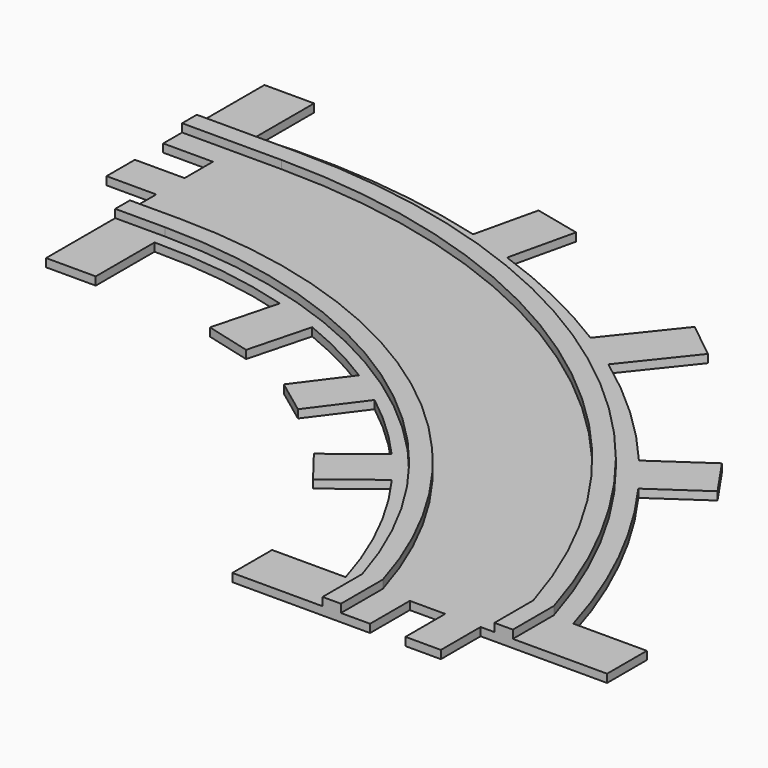
from build123d import *

# Parameters (mm, degrees)
F1_DEPTH = 25.4
F3_DEPTH = 25.4


with BuildPart() as f1:
    # F0 (on Top) → F1 (new body)
    with BuildSketch(Plane.XY):
        with BuildLine():
            Line((31.189967, 340.204117), (-123.115033, 340.204117))
            Line((-123.115033, 340.204117), (-123.115033, -52.810083))
            Line((-123.115033, -52.810083), (31.189967, -52.810083))
            Line((31.189967, -52.810083), (31.189967, -162.817483))
            Line((31.189967, -162.817483), (-123.115033, -162.817483))
            Line((-123.115033, -162.817483), (-123.115033, -272.824883))
            Line((-123.115033, -272.824883), (31.189967, -272.824883))
            Line((31.189967, -272.824883), (31.189967, -700.687883))
            Line((31.189967, -700.687883), (185.494967, -700.687883))
            Line((185.494967, -700.687883), (185.494967, -472.189483))
            ThreePointArc((185.494967, -472.189483), (406.425601, -486.299438), (622.902739, -532.636077))
            ThreePointArc((622.902739, -532.636077), (693.184114, -555.0638), (762.283228, -580.90537))
            ThreePointArc((762.283228, -580.90537), (888.467852, -638.535397), (1008.816242, -707.528472))
            ThreePointArc((1008.816242, -707.528472), (1065.008132, -745.073189), (1119.459623, -785.100298))
            ThreePointArc((1119.459623, -785.100298), (1229.380136, -878.480043), (1329.866812, -981.94368))
            ThreePointArc((1329.866812, -981.94368), (1373.307096, -1033.460725), (1414.400011, -1086.86893))
            ThreePointArc((1414.400011, -1086.86893), (1550.799617, -1311.26525), (1646.159828, -1555.938482))
            Line((1646.159828, -1555.938482), (1417.661428, -1555.938482))
            Line((1417.661428, -1555.938482), (1417.661428, -1710.243482))
            Line((1417.661428, -1710.243482), (1845.524428, -1710.243482))
            Line((1845.524428, -1710.243482), (1845.524428, -1555.938482))
            Line((1845.524428, -1555.938482), (1955.531828, -1555.938482))
            Line((1955.531828, -1555.938482), (1955.531828, -1710.243482))
            Line((1955.531828, -1710.243482), (2065.539228, -1710.243482))
            Line((2065.539228, -1710.243482), (2065.539228, -1555.938482))
            Line((2065.539228, -1555.938482), (2458.553428, -1555.938482))
            Line((2458.553428, -1555.938482), (2458.553428, -1401.633482))
            Line((2458.553428, -1401.633482), (2230.055028, -1401.633482))
            ThreePointArc((2230.055028, -1401.633482), (2098.411782, -1061.503235), (1910.130691, -749.14325))
            ThreePointArc((1910.130691, -749.14325), (1865.655335, -690.217277), (1819.144574, -632.884244))
            ThreePointArc((1819.144574, -632.884244), (1642.865002, -447.334595), (1445.405297, -284.507002))
            ThreePointArc((1445.405297, -284.507002), (1385.55525, -242.541612), (1324.286706, -202.675744))
            ThreePointArc((1324.286706, -202.675744), (1119.301825, -89.629511), (903.050114, 0))
            ThreePointArc((903.050114, 0), (833.05066, 23.189152), (762.283228, 43.916693))
            ThreePointArc((762.283228, 43.916693), (399.709676, 109.875363), (31.189967, 111.705717))
            Line((31.189967, 111.705717), (31.189967, 340.204117))
        make_face()
        with BuildLine():
            Line((807.937359, 241.05063), (762.283228, 43.916693))
            ThreePointArc((762.283228, 43.916693), (833.05066, 23.189152), (903.050114, 0))
            Line((903.050114, 0), (951.129198, 207.942814))
            Line((951.129198, 207.942814), (807.937359, 241.05063))
        make_face()
        with BuildLine():
            Line((1485.874518, 0), (1324.286706, -202.675744))
            ThreePointArc((1324.286706, -202.675744), (1385.55525, -242.541612), (1445.405297, -284.507002))
            Line((1445.405297, -284.507002), (1599.811573, -90.838889))
            Line((1599.811573, -90.838889), (1485.874518, 0))
        make_face()
        with BuildLine():
            Line((1985.43191, -518.501341), (1819.144574, -632.884244))
            ThreePointArc((1819.144574, -632.884244), (1865.655335, -690.217277), (1910.130691, -749.14325))
            Line((1910.130691, -749.14325), (2068.940302, -639.903997))
            Line((2068.940302, -639.903997), (1985.43191, -518.501341))
        make_face()
        with BuildLine():
            ThreePointArc((762.283228, -580.90537), (693.184114, -555.0638), (622.902739, -532.636077))
            Line((622.902739, -532.636077), (569.247404, -736.823327))
            Line((569.247404, -736.823327), (711.489907, -774.201122))
            Line((711.489907, -774.201122), (762.283228, -580.90537))
        make_face()
        with BuildLine():
            ThreePointArc((1119.459623, -785.100298), (1065.008132, -745.073189), (1008.816242, -707.528472))
            Line((1008.816242, -707.528472), (896.301459, -858.639513))
            Line((896.301459, -858.639513), (1004.640102, -939.306676))
            Line((1004.640102, -939.306676), (1119.459623, -785.100298))
        make_face()
        with BuildLine():
            ThreePointArc((1414.400011, -1086.86893), (1373.307096, -1033.460725), (1329.866812, -981.94368))
            Line((1329.866812, -981.94368), (1180.761456, -1097.536802))
            Line((1180.761456, -1097.536802), (1263.301866, -1204.006952))
            Line((1263.301866, -1204.006952), (1414.400011, -1086.86893))
        make_face()
    extrude(amount=F1_DEPTH)

    # F2 (on face) → F3 (join)
    with BuildSketch(Plane.XY.offset(25.4)):
        with BuildLine():
            Line((31.189967, -374.934591), (31.189967, -432.08459))
            Line((31.189967, -432.08459), (185.42558, -432.08459))
            ThreePointArc((185.42558, -432.08459), (1127.575593, -743.804748), (1697.886825, -1555.938482))
            Line((1697.886825, -1555.938482), (1697.886825, -1710.243482))
            Line((1697.886825, -1710.243482), (1755.036824, -1710.243482))
            Line((1755.036824, -1710.243482), (1755.036824, -1547.590702))
            ThreePointArc((1755.036824, -1547.590702), (1165.068603, -700.470951), (185.42558, -374.934591))
            Line((185.42558, -374.934591), (31.189967, -374.934591))
        make_face()
        with BuildLine():
            Line((185.42558, 77.712215), (-123.115033, 77.712215))
            Line((-123.115033, 77.712215), (-123.115033, 20.562185))
            Line((-123.115033, 20.562185), (185.42558, 20.562185))
            ThreePointArc((185.42558, 20.562185), (1382.369796, -374.686549), (2108.576155, -1404.988128))
            Line((2108.576155, -1404.988128), (2108.576155, -1555.938482))
            Line((2108.576155, -1555.938482), (2165.726185, -1555.938482))
            Line((2165.726185, -1555.938482), (2165.726185, -1396.556735))
            ThreePointArc((2165.726185, -1396.556735), (1419.834287, -331.324007), (185.42558, 77.712215))
        make_face()
    extrude(amount=F3_DEPTH)


solid = f1.part
